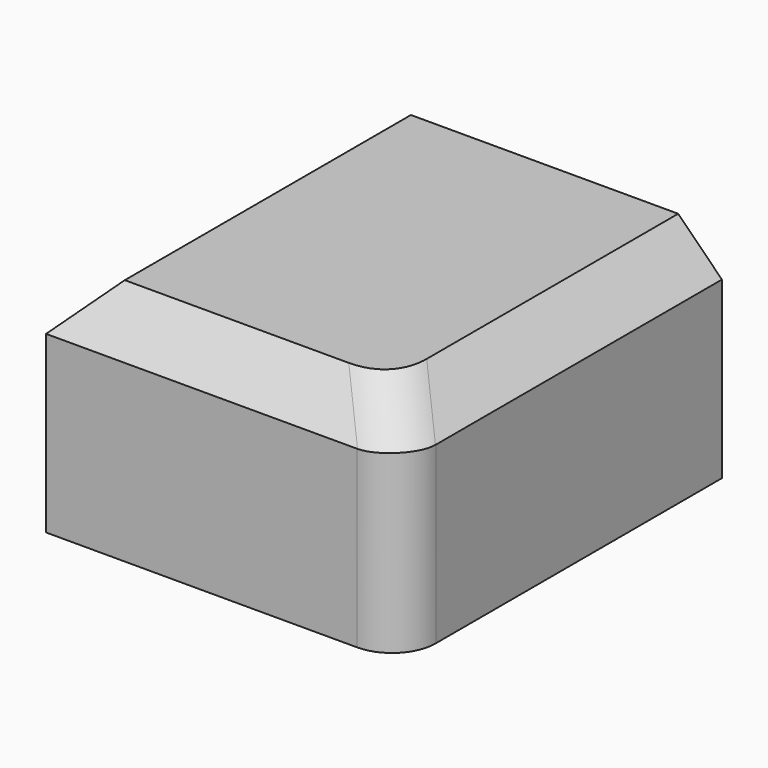
from build123d import *

# Parameters (mm, degrees)
F0_W     = 41.2199348211
F0_H     = 46.6398596764
F1_DEPTH = 25.4
F2_SIZE  = 5.08
F3_R     = 7.112
F4_R     = 5.08


with BuildPart() as f1:
    # F0 (on Top) → F1 (new body)
    with BuildSketch(Plane.XY):
        Rectangle(F0_W, F0_H)
    extrude(amount=F1_DEPTH)

    # F2
    f2_edges = [f1.edges().sort_by_distance(p)[0] for p in [
        (20.609967, 0, 25.4),
        (-20.609967, 0, 25.4),
        (0, -23.31993, 25.4),
    ]]
    chamfer(f2_edges, length=F2_SIZE)

    # F3
    f3_edges = [f1.edges().sort_by_distance(p)[0] for p in [
        (18.069967, -20.77993, 22.86),
    ]]
    fillet(f3_edges, radius=F3_R)

    # F4
    f4_edges = [f1.edges().sort_by_distance(p)[0] for p in [
        (20.609967, -23.31993, 9.486249),
    ]]
    fillet(f4_edges, radius=F4_R)


solid = f1.part
